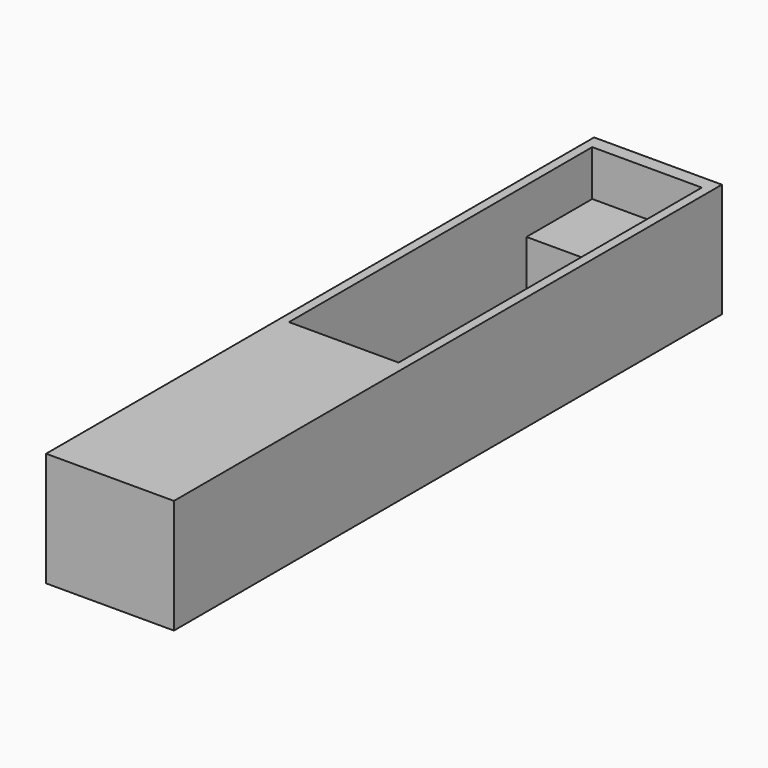
from build123d import *

# Parameters (mm, degrees)
F0_W     = 28
F0_H     = 25
F1_DEPTH = 150
F2_W     = 24
F2_H     = 18
F3_DEPTH = 10
F4_W     = 24
F4_H     = 65
F5_DEPTH = 20


with BuildPart() as f1:
    # F0 (on Front) → F1 (new body)
    with BuildSketch(Plane.XZ):
        with Locations((14, 12.5)):
            Rectangle(F0_W, F0_H)
    extrude(amount=F1_DEPTH)

    # F2 (on face) → F3 (cut)
    with BuildSketch(Plane.XY.offset(25)):
        with Locations((14, -12)):
            Rectangle(F2_W, F2_H)
    extrude(amount=-F3_DEPTH, mode=Mode.SUBTRACT)

    # F4 (on face) → F5 (cut)
    with BuildSketch(Plane.XY.offset(25)):
        with Locations((14, -53.5)):
            Rectangle(F4_W, F4_H)
    extrude(amount=-F5_DEPTH, mode=Mode.SUBTRACT)


solid = f1.part
